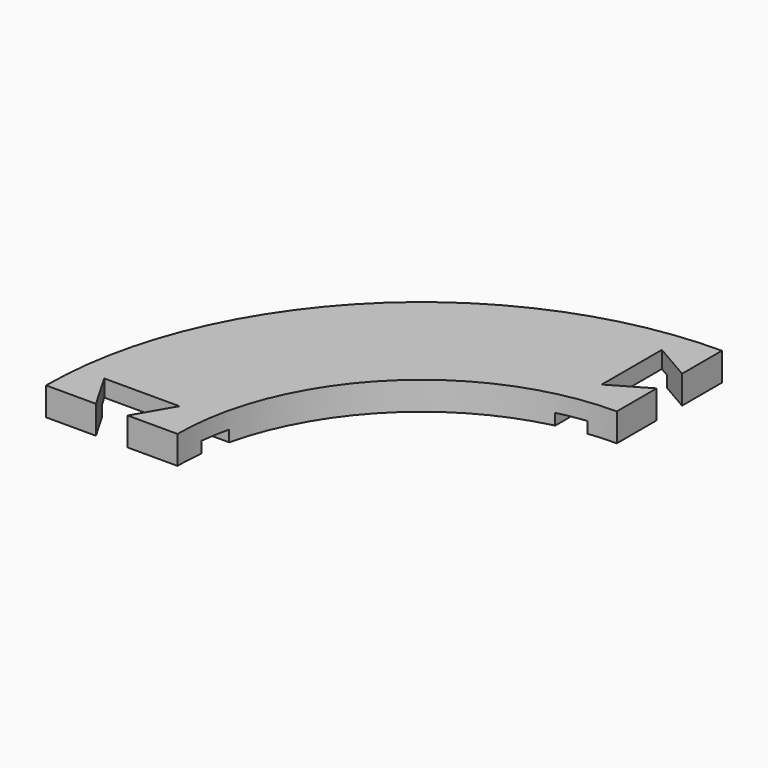
from build123d import *

# Parameters (mm, degrees)
F1_DEPTH = 19.05
F2_W     = 19.05
F2_H     = 7.62
F3_DEPTH = 254.001
F4_W     = 19.05
F4_H     = 7.62
F5_DEPTH = 254.001


with BuildPart() as f1:
    # F0 (on Top) → F1 (new body)
    with BuildSketch(Plane.XY):
        with BuildLine():
            ThreePointArc((0, 254), (-179.605122, 179.605122), (-254, 0))
            Line((-254, 0), (-220.285303, 0))
            Line((-220.285303, 0), (-234.95, 25.4))
            Line((-234.95, 25.4), (-184.15, 25.4))
            Line((-184.15, 25.4), (-198.814697, 0))
            Line((-198.814697, 0), (-165.1, 0))
            ThreePointArc((-165.1, 0), (-116.74333, 116.74333), (0, 165.1))
            Line((0, 165.1), (0, 198.814697))
            Line((0, 198.814697), (-25.4, 184.15))
            Line((-25.4, 184.15), (-25.4, 234.95))
            Line((-25.4, 234.95), (0, 220.285303))
            Line((0, 220.285303), (0, 254))
        make_face()
    extrude(amount=F1_DEPTH)

    # F2 (on Right) → F3 (cut, through all)
    with BuildSketch(Plane.YZ):
        with Locations((28.575, 3.81)):
            Rectangle(F2_W, F2_H)
    extrude(amount=-F3_DEPTH, mode=Mode.SUBTRACT)

    # F4 (on Front) → F5 (cut, through all)
    with BuildSketch(Plane.XZ):
        with Locations((-28.575, 3.81)):
            Rectangle(F4_W, F4_H)
    extrude(amount=-F5_DEPTH, mode=Mode.SUBTRACT)


solid = f1.part
